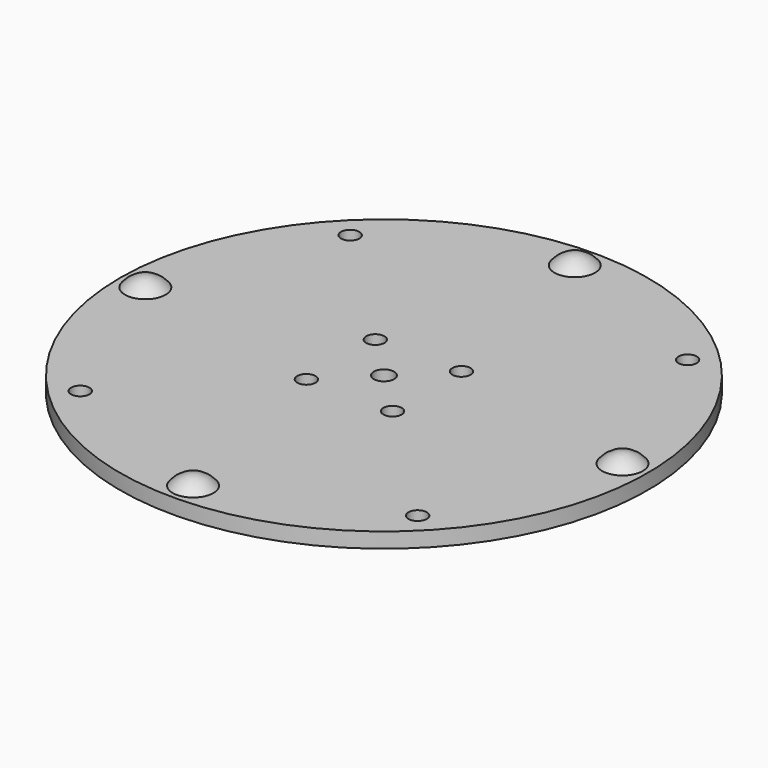
from build123d import *

# Parameters (mm, degrees)
SKETCH004_R             = 52
SKETCH004_R_2           = 2
SKETCH004_R_3           = 1.8
PAD003_DEPTH            = 3
SKETCH006_R             = 1.8
POCKET001_DEPTH         = 0.001
POCKET001_DEPTH_BACK    = 3.001
BODY002_PLACEMENT_ANGLE = 180


with BuildPart() as part:
    # Sketch004 → Pad003 (new body)
    with BuildSketch(Plane.XY):
        Circle(SKETCH004_R)
        Circle(SKETCH004_R_2, mode=Mode.SUBTRACT)
        with Locations((8.485281, 8.485281)):
            Circle(SKETCH004_R_3, mode=Mode.SUBTRACT)
        with Locations((-8.485281, 8.485281)):
            Circle(SKETCH004_R_3, mode=Mode.SUBTRACT)
        with Locations((-8.485281, -8.485281)):
            Circle(SKETCH004_R_3, mode=Mode.SUBTRACT)
        with Locations((8.485281, -8.485281)):
            Circle(SKETCH004_R_3, mode=Mode.SUBTRACT)
    extrude(amount=PAD003_DEPTH)

    # Sketch006 → Pocket001 (cut, two sides)
    with BuildSketch(Plane.XY) as pocket001_sk:
        with Locations((-33.234019, 33.234019)):
            Circle(SKETCH006_R)
        with Locations((-33.234019, -33.234019)):
            Circle(SKETCH006_R)
        with Locations((33.234019, -33.234019)):
            Circle(SKETCH006_R)
        with Locations((33.234019, 33.234019)):
            Circle(SKETCH006_R)
    extrude(amount=-POCKET001_DEPTH, mode=Mode.SUBTRACT)
    extrude(pocket001_sk.sketch, amount=POCKET001_DEPTH_BACK, mode=Mode.SUBTRACT)

    # Sphere → Sphere (revolve)
    with BuildSketch(Plane.XZ.offset(-47)):
        with BuildLine():
            ThreePointArc((5, 0), (3.535534, 3.535534), (0, 5))
            Line((0, 5), (0, 0))
            Line((0, 0), (5, 0))
        make_face()
    revolve(axis=Axis((0, 47, 0), (0, 0, 1)))

    # Sphere001 → Sphere001 (revolve)
    with BuildSketch(Plane.XZ.offset(47)):
        with BuildLine():
            ThreePointArc((5, 0), (3.535534, 3.535534), (0, 5))
            Line((0, 5), (0, 0))
            Line((0, 0), (5, 0))
        make_face()
    revolve(axis=Axis((0, -47, 0), (0, 0, 1)))

    # Sphere002 → Sphere002 (revolve)
    with BuildSketch(Plane(origin=(47, 0, 0), x_dir=(1, 0, 0), z_dir=(0, -1, 0))):
        with BuildLine():
            ThreePointArc((5, 0), (3.535534, 3.535534), (0, 5))
            Line((0, 5), (0, 0))
            Line((0, 0), (5, 0))
        make_face()
    revolve(axis=Axis((47, 0, 0), (0, 0, 1)))

    # Sphere003 → Sphere003 (revolve)
    with BuildSketch(Plane(origin=(-47, 0, 0), x_dir=(1, 0, 0), z_dir=(0, -1, 0))):
        with BuildLine():
            ThreePointArc((5, 0), (3.535534, 3.535534), (0, 5))
            Line((0, 5), (0, 0))
            Line((0, 0), (5, 0))
        make_face()
    revolve(axis=Axis((-47, 0, 0), (0, 0, 1)))


with BuildPart() as part_1:
    # Body002 placement: moved
    add(part.part.moved(Location((0, 0, 53))).rotate(Axis((0, 0, 53), (0, 0, -1)), BODY002_PLACEMENT_ANGLE))


solid = part_1.part
